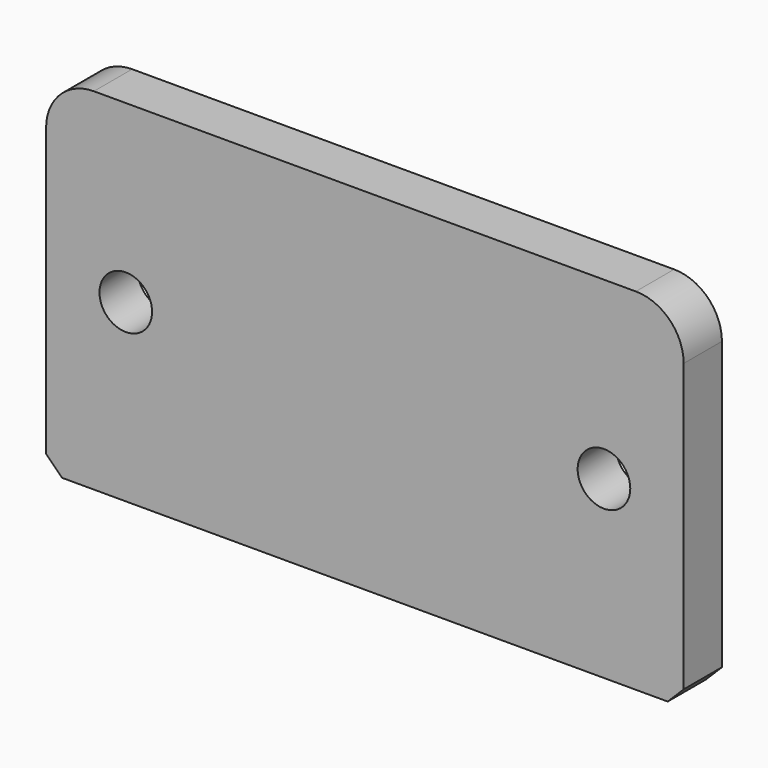
from build123d import *

# Parameters (mm, degrees)
SKETCH048_W     = 40
SKETCH048_H     = 22
SKETCH048_R     = 1.65
PAD017_DEPTH    = 3
FILLET018_R     = 3
CHAMFER030_SIZE = 1


with BuildPart() as part:
    # Sketch048 → Pad017 (new body)
    with BuildSketch(Plane.XZ):
        with Locations((0, -11)):
            Rectangle(SKETCH048_W, SKETCH048_H)
        with Locations((15, -11)):
            Circle(SKETCH048_R, mode=Mode.SUBTRACT)
        with Locations((-15, -11)):
            Circle(SKETCH048_R, mode=Mode.SUBTRACT)
    extrude(amount=-PAD017_DEPTH)

    # Fillet018
    fillet018_edges = [part.edges().sort_by_distance(p)[0] for p in [
        (20, 1.5, 0),
        (-20, 1.5, 0),
    ]]
    fillet(fillet018_edges, radius=FILLET018_R)

    # Chamfer030
    chamfer030_edges = [part.edges().sort_by_distance(p)[0] for p in [
        (20, 1.5, -22),
        (-20, 1.5, -22),
    ]]
    chamfer(chamfer030_edges, length=CHAMFER030_SIZE)


with BuildPart() as part_1:
    # Body016 placement: moved
    add(part.part.moved(Location((0, 0.3, 102))))


solid = part_1.part
